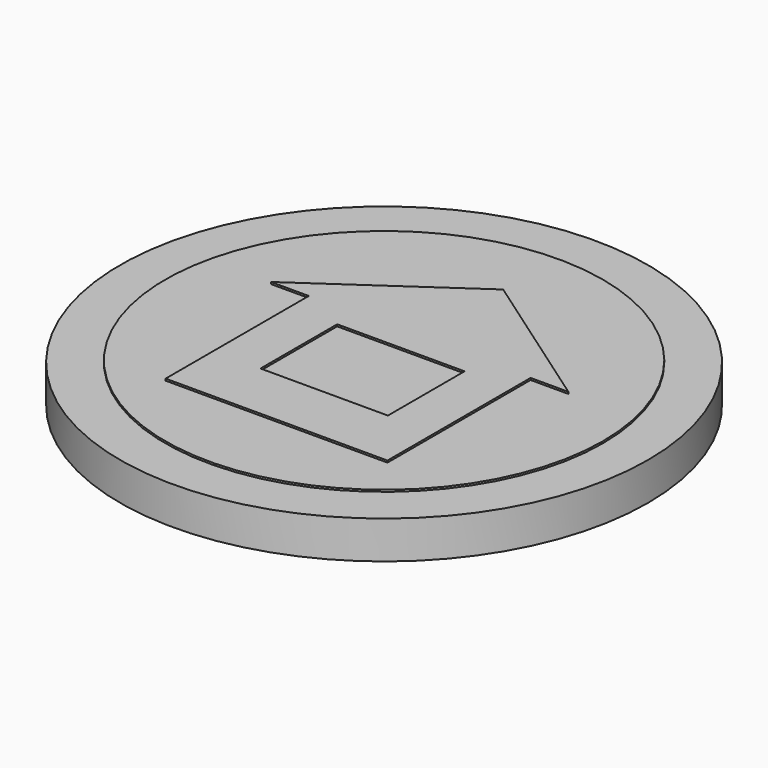
from build123d import *

# Parameters (mm, degrees)
F0_R     = 3.550157
F1_DEPTH = 0.508
F2_R     = 2.943
F3_DEPTH = 0.0254
F4_W     = 1.713301
F4_H     = 1.288881
F5_DEPTH = 0.0254


with BuildPart() as f1:
    # F0 (on Top) → F1 (new body)
    with BuildSketch(Plane.XY):
        Circle(F0_R)
    extrude(amount=F1_DEPTH)

    # F2 (on face) → F3 (join)
    with BuildSketch(Plane.XY.offset(0.508)):
        Circle(F2_R)
    extrude(amount=F3_DEPTH)

    # F4 (on face) → F5 (join)
    with BuildSketch(Plane.XY.offset(0.5334)):
        Polygon((-1.502313, -1.794855), (1.480988, -1.794855), (1.480988, 0.612127), (1.989505, 0.612127), (0, 2.002074), (-2.010831, 0.612127), (-1.502313, 0.612127), align=None)
        with Locations((-0.010663, -0.349021)):
            Rectangle(F4_W, F4_H, mode=Mode.SUBTRACT)
    extrude(amount=F5_DEPTH)


solid = f1.part
